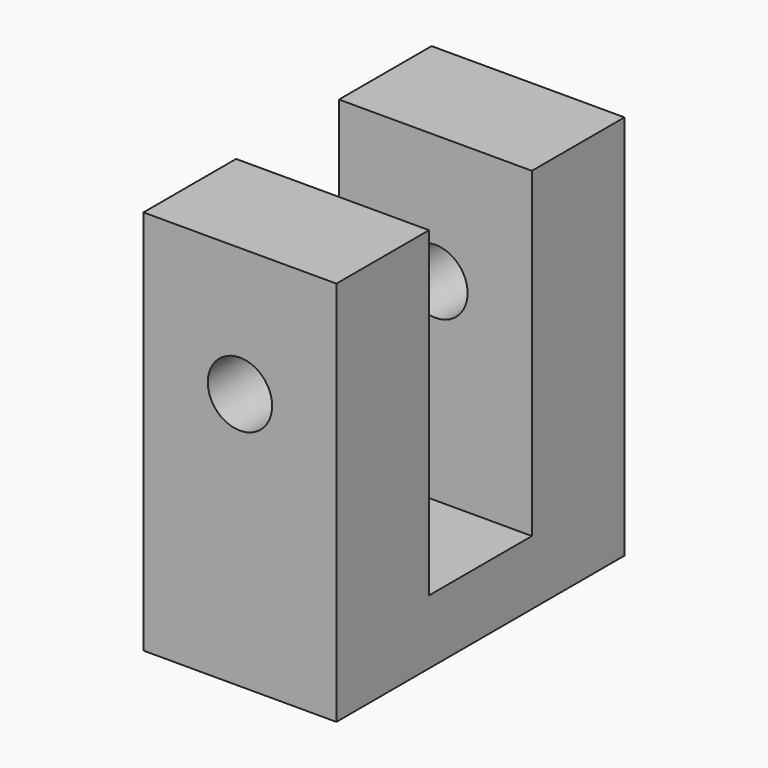
from build123d import *

# Parameters (mm, degrees)
F1_DEPTH = 9.525
F2_R     = 3.175
F3_DEPTH = 17.78
F4_R     = 3.175
F5_DEPTH = 12.7


with BuildPart() as f1:
    # F0 (on Right) → F1 (new body, symmetric)
    with BuildSketch(Plane.YZ):
        Polygon((-6.35, 12.7), (-17.78, 12.7), (-17.78, -25.4), (17.78, -25.4), (17.78, 12.7), (6.35, 12.7), (6.35, -19.05), (-6.35, -19.05), align=None)
    extrude(amount=F1_DEPTH, both=True)

    # F2 (on Front) → F3 (cut, symmetric)
    with BuildSketch(Plane.XZ):
        Circle(F2_R)
    extrude(amount=F3_DEPTH, both=True, mode=Mode.SUBTRACT)

    # F4 (on face) → F5 (cut)
    with BuildSketch(Plane(origin=(0, 0, -25.4), x_dir=(1, 0, 0), z_dir=(0, 0, -1))):
        with Locations((3.175, 13.0048)):
            Circle(F4_R)
        with Locations((3.175, -13.0048)):
            Circle(F4_R)
    extrude(amount=-F5_DEPTH, mode=Mode.SUBTRACT)


solid = f1.part
